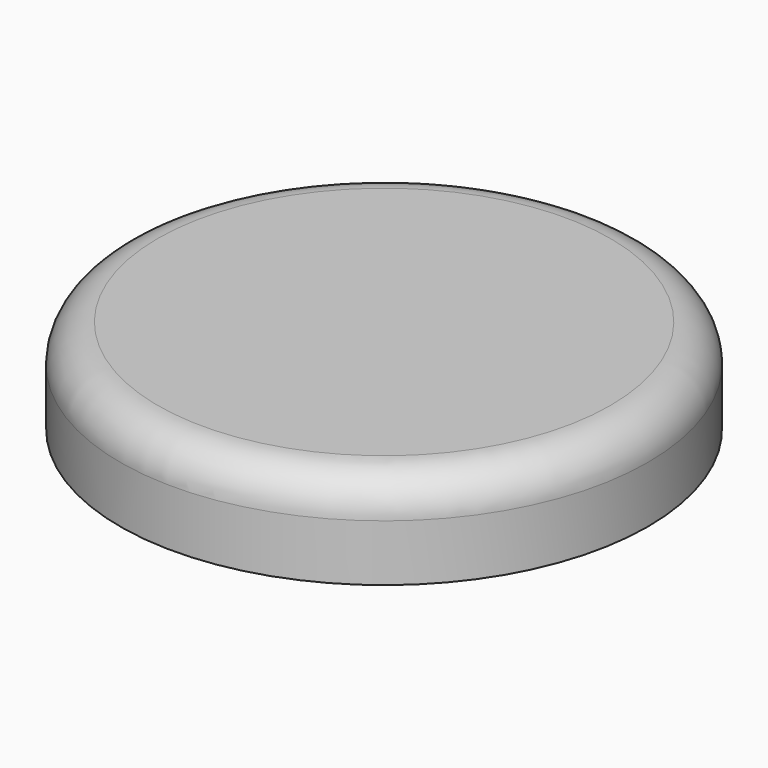
from build123d import *

# Parameters (mm, degrees)
SKETCH_R  = 14
PAD_DEPTH = 5
FILLET_R  = 2


with BuildPart() as part:
    # Sketch → Pad (new body)
    with BuildSketch(Plane.XY):
        with Locations((-0.073484, 0)):
            Circle(SKETCH_R)
    extrude(amount=PAD_DEPTH)

    # Fillet
    fillet_edges = [part.edges().sort_by_distance(p)[0] for p in [
        (-14.073484, 0, 5),
    ]]
    fillet(fillet_edges, radius=FILLET_R)


solid = part.part
